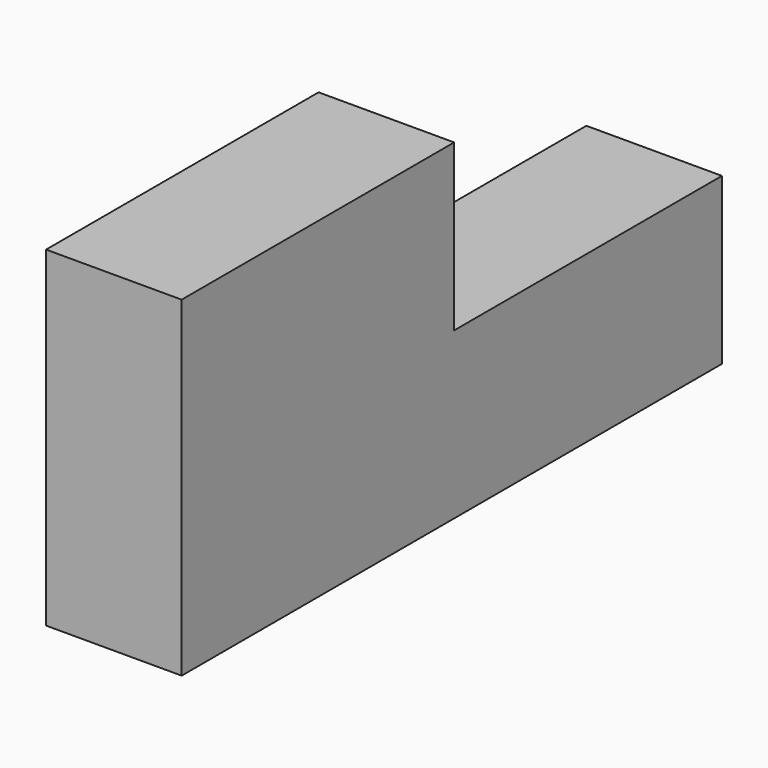
from build123d import *

# Parameters (mm, degrees)
F0_W     = 137.962796
F0_H     = 67.628823
F1_DEPTH = 27.7
F2_W     = 68.380252
F2_H     = 33.814411
F3_DEPTH = 36.4


with BuildPart() as f1:
    # F0 (on Right) → F1 (new body)
    with BuildSketch(Plane.YZ):
        with Locations((-0.601146, -10.820613)):
            Rectangle(F0_W, F0_H)
    extrude(amount=-F1_DEPTH)

    # F2 (on face) → F3 (cut)
    with BuildSketch(Plane(origin=(-27.7, 0, 0), x_dir=(0, -1, 0), z_dir=(-1, 0, 0))):
        with Locations((-34.190126, 6.086594)):
            Rectangle(F2_W, F2_H)
    extrude(amount=-F3_DEPTH, mode=Mode.SUBTRACT)


solid = f1.part
